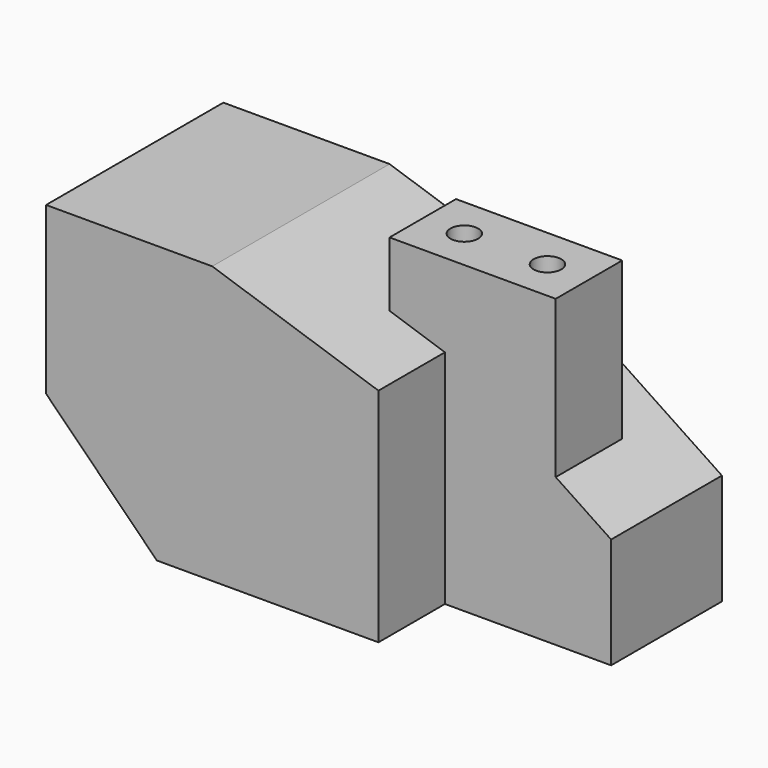
from build123d import *

# Parameters (mm, degrees)
F1_DEPTH = 50.8
F3_DEPTH = 31.75
F5_DEPTH = 69.85
F6_R     = 3.175
F7_DEPTH = 69.851


with BuildPart() as f1:
    # F0 (on Front) → F1 (new body)
    with BuildSketch(Plane.XZ):
        Polygon((-25.4, 25.4), (0, 0), (50.8, 0), (50.8, 50.8), (12.7, 63.5), (-25.4, 63.5), align=None)
    extrude(amount=F1_DEPTH)

    # F2 (on face) → F3 (join)
    with BuildSketch(Plane(origin=(0, 0, 0), x_dir=(-1, 0, 0), z_dir=(0, 1, 0))):
        Polygon((-88.9, 0), (-50.8, 0), (-50.8, 50.8), (-88.9, 25.4), align=None)
    extrude(amount=-F3_DEPTH)

    # F4 (on face) → F5 (join)
    with BuildSketch(Plane(origin=(0, 0, 0), x_dir=(1, 0, 0), z_dir=(0, 0, -1))):
        Polygon((76.2, 12.7), (76.2, 31.75), (50.8, 31.75), (38.1, 31.75), (38.1, 12.7), align=None)
    extrude(amount=-F5_DEPTH)

    # F6 (on face) → F7 (cut, through all)
    with BuildSketch(Plane.XY.offset(69.85)):
        with Locations((47.625, -22.225)):
            Circle(F6_R)
        with Locations((66.675, -22.225)):
            Circle(F6_R)
    extrude(amount=-F7_DEPTH, mode=Mode.SUBTRACT)


solid = f1.part
